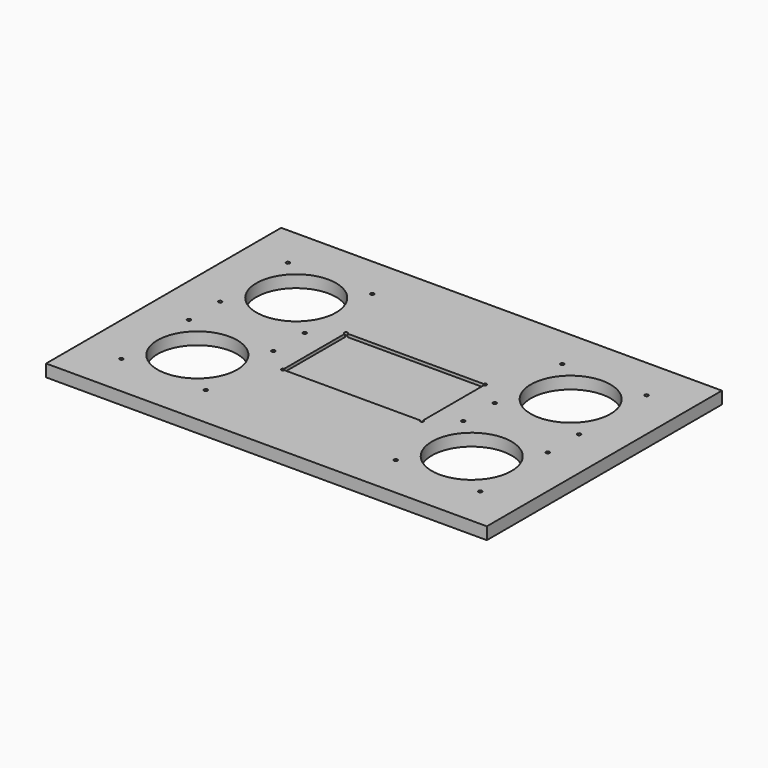
from build123d import *

# Parameters (mm, degrees)
F0_W     = 457.2
F0_H     = 304.8
F0_R     = 1.8288
F0_R_2   = 41.34485
F1_DEPTH = 12.7
F2_W     = 144.399
F2_H     = 82.042
F3_DEPTH = 3.175
F4_R     = 1.5875
F5_DEPTH = 3.175


with BuildPart() as f1:
    # F0 (on Top) → F1 (new body)
    with BuildSketch(Plane.XY):
        Rectangle(F0_W, F0_H)
        with Locations((-186.120166, -107.938549)):
            Circle(F0_R, mode=Mode.SUBTRACT)
        with Locations((-98.490166, -107.938549)):
            Circle(F0_R, mode=Mode.SUBTRACT)
        with Locations((-142.305166, -64.123549)):
            Circle(F0_R_2, mode=Mode.SUBTRACT)
        with Locations((-186.120166, -20.308549)):
            Circle(F0_R, mode=Mode.SUBTRACT)
        with Locations((-98.490166, -20.308549)):
            Circle(F0_R, mode=Mode.SUBTRACT)
        with Locations((98.490166, -107.938549)):
            Circle(F0_R, mode=Mode.SUBTRACT)
        with Locations((186.120166, -107.938549)):
            Circle(F0_R, mode=Mode.SUBTRACT)
        with Locations((98.490166, -20.308549)):
            Circle(F0_R, mode=Mode.SUBTRACT)
        with Locations((142.305166, -64.123549)):
            Circle(F0_R_2, mode=Mode.SUBTRACT)
        with Locations((186.120166, -20.308549)):
            Circle(F0_R, mode=Mode.SUBTRACT)
        with Locations((-186.120166, 20.308549)):
            Circle(F0_R, mode=Mode.SUBTRACT)
        with Locations((-142.305166, 64.123549)):
            Circle(F0_R_2, mode=Mode.SUBTRACT)
        with Locations((-98.490166, 20.308549)):
            Circle(F0_R, mode=Mode.SUBTRACT)
        with Locations((-186.120166, 107.938549)):
            Circle(F0_R, mode=Mode.SUBTRACT)
        with Locations((-98.490166, 107.938549)):
            Circle(F0_R, mode=Mode.SUBTRACT)
        with Locations((98.490166, 20.308549)):
            Circle(F0_R, mode=Mode.SUBTRACT)
        with Locations((186.120166, 20.308549)):
            Circle(F0_R, mode=Mode.SUBTRACT)
        with Locations((142.305166, 64.123549)):
            Circle(F0_R_2, mode=Mode.SUBTRACT)
        with Locations((98.490166, 107.938549)):
            Circle(F0_R, mode=Mode.SUBTRACT)
        with Locations((186.120166, 107.938549)):
            Circle(F0_R, mode=Mode.SUBTRACT)
    extrude(amount=F1_DEPTH)

    # F2 (on face) → F3 (cut)
    with BuildSketch(Plane.XY.offset(12.7)):
        Rectangle(F2_W, F2_H)
    extrude(amount=-F3_DEPTH, mode=Mode.SUBTRACT)

    # F4 (on face) → F5 (cut, through all)
    with BuildSketch(Plane.XY.offset(12.7)):
        with Locations((-72.1995, 41.021)):
            Circle(F4_R)
        with Locations((72.1995, 41.021)):
            Circle(F4_R)
        with Locations((72.1995, -41.021)):
            Circle(F4_R)
        with Locations((-72.1995, -41.021)):
            Circle(F4_R)
    extrude(amount=-F5_DEPTH, mode=Mode.SUBTRACT)


solid = f1.part
